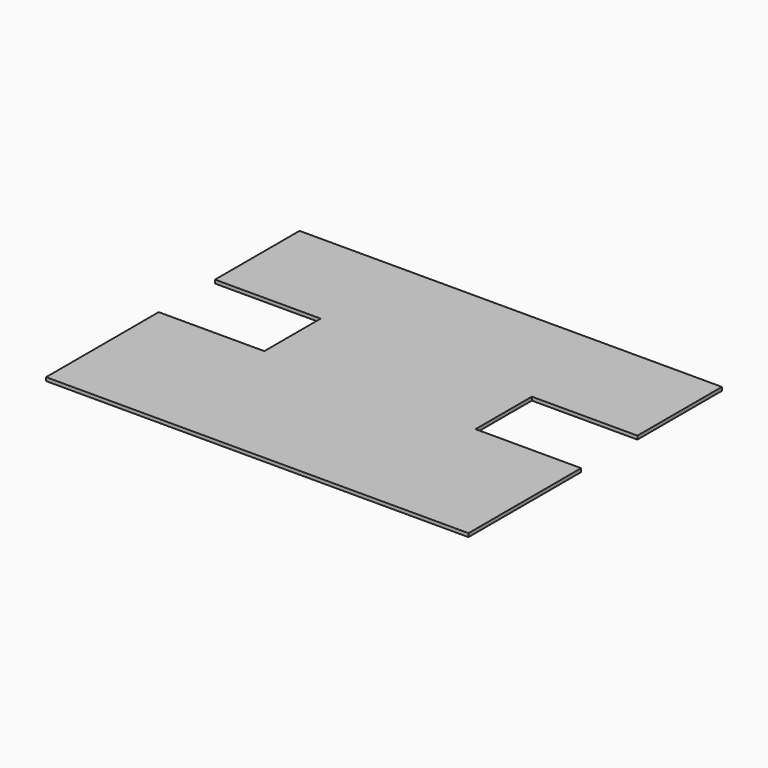
from build123d import *

# Parameters (mm, degrees)
F1_DEPTH = 5
F2_W     = 635.918021
F2_H     = 207.585454
F3_DEPTH = 25


with BuildPart() as f1:
    # F0 (on Top) → F1 (new body)
    with BuildSketch(Plane.XY):
        Polygon((0, 200), (0, 0), (600, 0), (600, 200), (450, 200), (450, 300), (600, 300), (600, 450), (0, 450), (0, 300), (150, 300), (150, 200), align=None)
        Polygon((600, 0), (0, 0), (150, -200), (450, -200), align=None)
    extrude(amount=F1_DEPTH)

    # F2 (on face) → F3 (cut)
    with BuildSketch(Plane.XY.offset(5)):
        with Locations((317.95901, -103.792727)):
            Rectangle(F2_W, F2_H)
    extrude(amount=-F3_DEPTH, mode=Mode.SUBTRACT)


solid = f1.part
